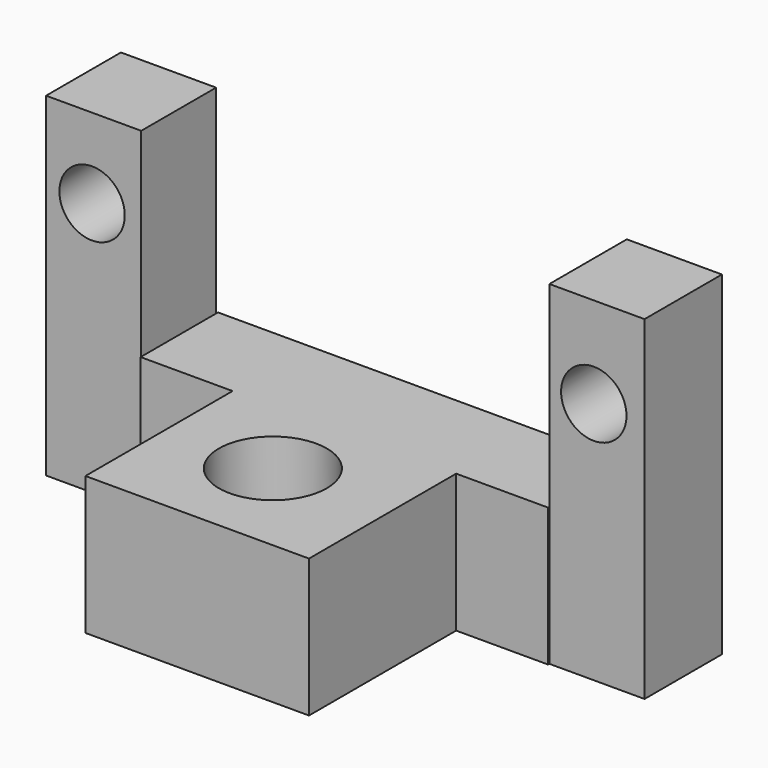
from build123d import *

# Parameters (mm, degrees)
F1_DEPTH  = 25.4
F2_W      = 17.488524
F2_H      = 17.780002
F2_W_2    = 17.488528
F2_H_2    = 17.19705
F3_DEPTH  = 61.468
F4_R      = 9.91445
F5_DEPTH  = 47.752
F6_R      = 4.653426
F7_DEPTH  = 54.864
F8_R      = 6.008917
F9_DEPTH  = 49.784
F10_R     = 6.008916
F11_DEPTH = 51.054


with BuildPart() as f1:
    # F0 (on Top) → F1 (new body)
    with BuildSketch(Plane.XY):
        Polygon((-42.263936, 18.800164), (-25.35836, 18.800164), (-25.35836, -15.010984), (15.739674, -15.010984), (15.739674, 18.800176), (32.645253, 18.800176), (32.645253, 36.580164), (-42.263936, 36.580164), align=None)
    extrude(amount=F1_DEPTH)

    # F2 (on Top) → F3 (join)
    with BuildSketch(Plane.XY):
        with Locations((41.389506, 27.981641)):
            Rectangle(F2_W, F2_H)
        with Locations((-51.591149, 28.273117)):
            Rectangle(F2_W_2, F2_H_2)
    extrude(amount=F3_DEPTH)

    # F4 (on Top) → F5 (cut)
    with BuildSketch(Plane.XY):
        with Locations((-5.829508, 3.643443)):
            Circle(F4_R)
    extrude(amount=F5_DEPTH, mode=Mode.SUBTRACT)

    # F6 (on Front) → F7 (cut)
    with BuildSketch(Plane.XZ):
        with Locations((26.7267, 51.102538)):
            Circle(F6_R)
    extrude(amount=-F7_DEPTH, mode=Mode.SUBTRACT)

    # F8 (on face) → F9 (cut)
    with BuildSketch(Plane.XZ.offset(-19.674592)):
        with Locations((-51.882625, 46.781804)):
            Circle(F8_R)
    extrude(amount=-F9_DEPTH, mode=Mode.SUBTRACT)

    # F10 (on Front) → F11 (cut)
    with BuildSketch(Plane.XZ):
        with Locations((40.806558, 44.741478)):
            Circle(F10_R)
    extrude(amount=-F11_DEPTH, mode=Mode.SUBTRACT)


solid = f1.part
